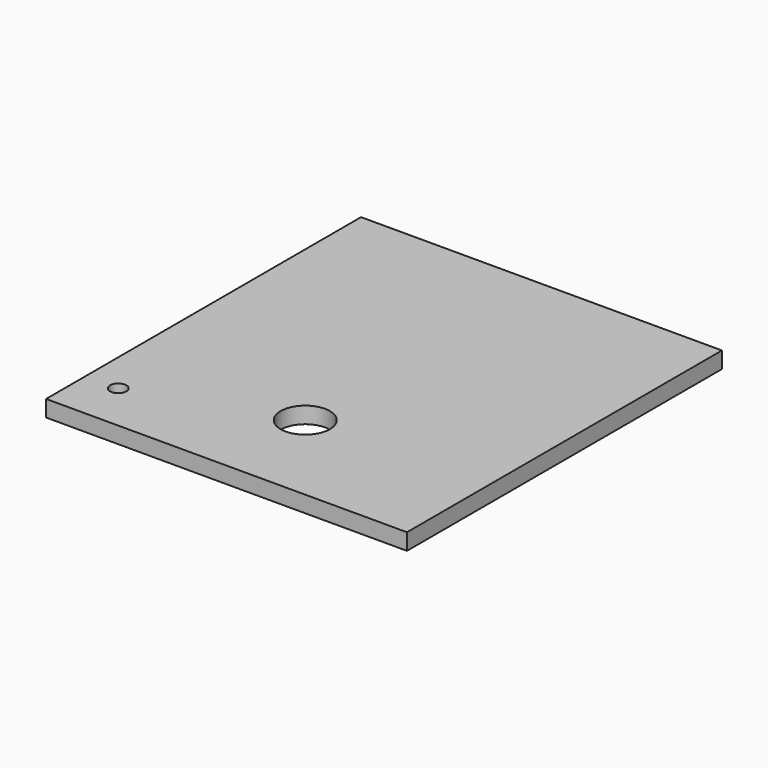
from build123d import *

# Parameters (mm, degrees)
SKETCH_W   = 139.7
SKETCH_H   = 152.4
SKETCH_R   = 3.175
SKETCH_R_2 = 9.525
PAD_DEPTH  = 6.35


with BuildPart() as part:
    # Sketch → Pad (new body)
    with BuildSketch(Plane.XY):
        with Locations((69.85, 76.2)):
            Rectangle(SKETCH_W, SKETCH_H)
        with Locations((12.7, 19.05)):
            Circle(SKETCH_R, mode=Mode.SUBTRACT)
        with Locations((69.85, 38.1)):
            Circle(SKETCH_R_2, mode=Mode.SUBTRACT)
    extrude(amount=PAD_DEPTH)


solid = part.part
